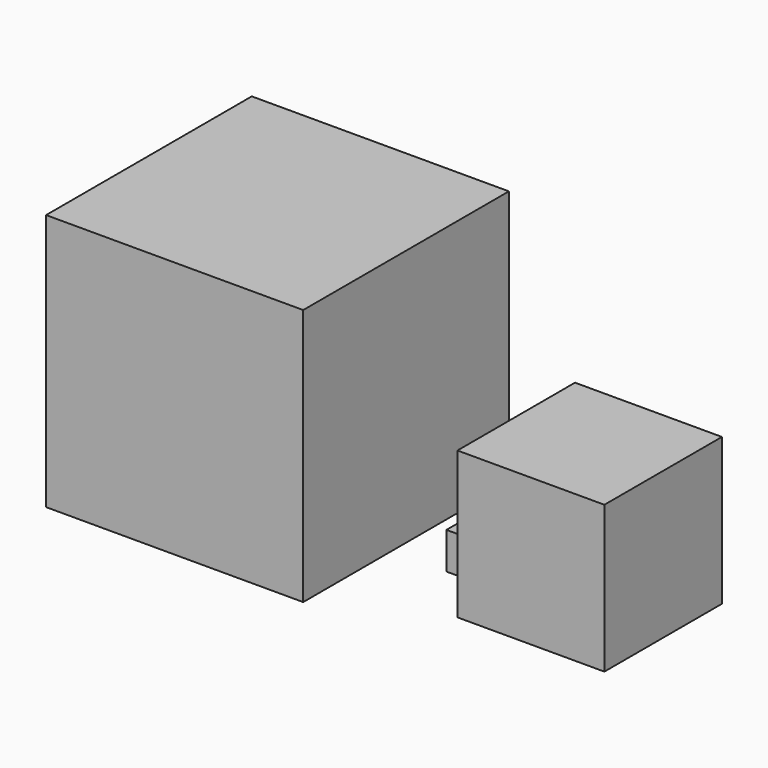
from build123d import *

# Parameters (mm, degrees)
F0_W     = 70
F0_H     = 70
F1_DEPTH = 70
F0_W_2   = 10
F0_H_2   = 10
F2_DEPTH = 10
F0_W_3   = 40
F0_H_3   = 40
F3_DEPTH = 40


with BuildPart() as f1:
    # F0 (on Top) → F1 (new body)
    with BuildSketch(Plane.XY):
        with Locations((-55, 0)):
            Rectangle(F0_W, F0_H)
    extrude(amount=F1_DEPTH)


with BuildPart() as f2:
    # F0 (on Top) → F2 (new body)
    with BuildSketch(Plane.XY):
        Rectangle(F0_W_2, F0_H_2)
    extrude(amount=F2_DEPTH)


with BuildPart() as f3:
    # F0 (on Top) → F3 (new body)
    with BuildSketch(Plane.XY):
        with Locations((30, 0)):
            Rectangle(F0_W_3, F0_H_3)
    extrude(amount=F3_DEPTH)


solid = Compound([f1.part, f2.part, f3.part])
